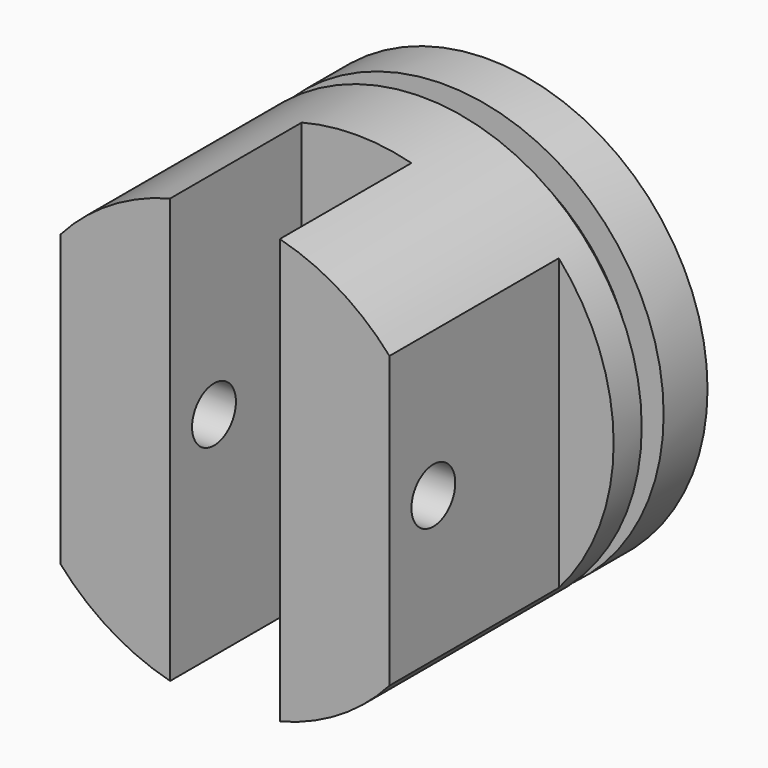
from build123d import *

# Parameters (mm, degrees)
F2_W     = 25.4
F2_H     = 38.1
F3_DEPTH = 73.406
F4_W     = 50.8549439785
F4_H     = 94.5440666826
F4_W_2   = 38.6421700465
F4_H_2   = 83.6342661441
F5_DEPTH = 49.022
F6_R     = 6.35
F7_DEPTH = 140.462


with BuildPart() as f1:
    # F0 (on Top) → F1 (revolve)
    with BuildSketch(Plane.XY):
        Polygon((0, 76.2), (0, 0), (50.8, 0), (50.8, 57.15), (44.45, 57.15), (44.45, 63.5), (50.8, 63.5), (50.8, 76.2), align=None)
    revolve(axis=Axis((0, 40.4900377447, 0), (0, 1, 0)))

    # F2 (on Top) → F3 (cut, symmetric)
    with BuildSketch(Plane.XY):
        with Locations((0, 19.05)):
            Rectangle(F2_W, F2_H)
    extrude(amount=F3_DEPTH, both=True, mode=Mode.SUBTRACT)

    # F4 (on face) → F5 (cut)
    with BuildSketch(Plane.XZ):
        with Locations((-63.5274719893, 9.0622203734)):
            Rectangle(F4_W, F4_H)
        with Locations((57.4210850232, -1.1638980359)):
            Rectangle(F4_W_2, F4_H_2)
    extrude(amount=-F5_DEPTH, mode=Mode.SUBTRACT)

    # F6 (on face) → F7 (cut)
    with BuildSketch(Plane(origin=(-38.1, 0, 0), x_dir=(0, -1, 0), z_dir=(-1, 0, 0))):
        with Locations((-12.7, 0)):
            Circle(F6_R)
    extrude(amount=-F7_DEPTH, mode=Mode.SUBTRACT)


solid = f1.part
